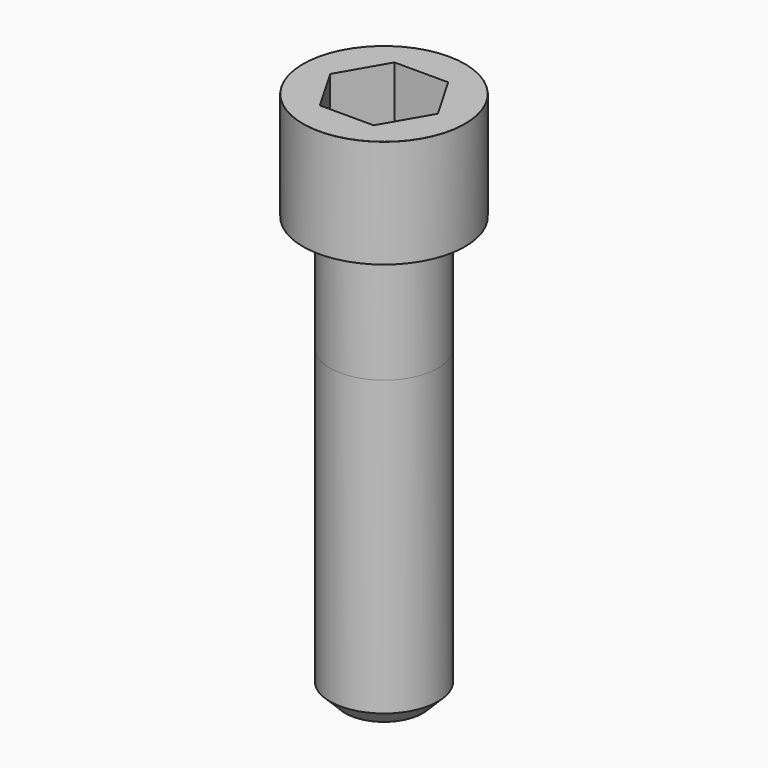
from build123d import *

# Parameters (mm, degrees)
POCKET_DEPTH = 12.07


with BuildPart() as part:
    # Sketch → Revolve (revolve)
    with BuildSketch(Plane.YZ):
        with BuildLine():
            Line((6.999, 0), (10.5, 0))
            Line((10.5, 0), (10.5, 13.97229))
            ThreePointArc((10.5, 13.97229), (10.491884, 13.991884), (10.47229, 14))
            Line((10.47229, 14), (0, 14))
            Line((0, -55), (0, 14))
            Line((5, -55), (0, -55))
            Line((7, -53), (5, -55))
            Line((7, -15), (7, -53))
            Line((6.999, 0), (7, -15))
        make_face()
    revolve(axis=Axis((0, 0, 0), (0, 0, 1)))

    # Sketch001 → Pocket (cut)
    with BuildSketch(Plane.XY.offset(14)):
        Polygon((6.968618, 0), (3.484309, 6.035), (-3.484309, 6.035), (-6.968618, 0), (-3.484309, -6.035), (3.484309, -6.035), align=None)
    extrude(amount=-POCKET_DEPTH, mode=Mode.SUBTRACT)


solid = part.part
